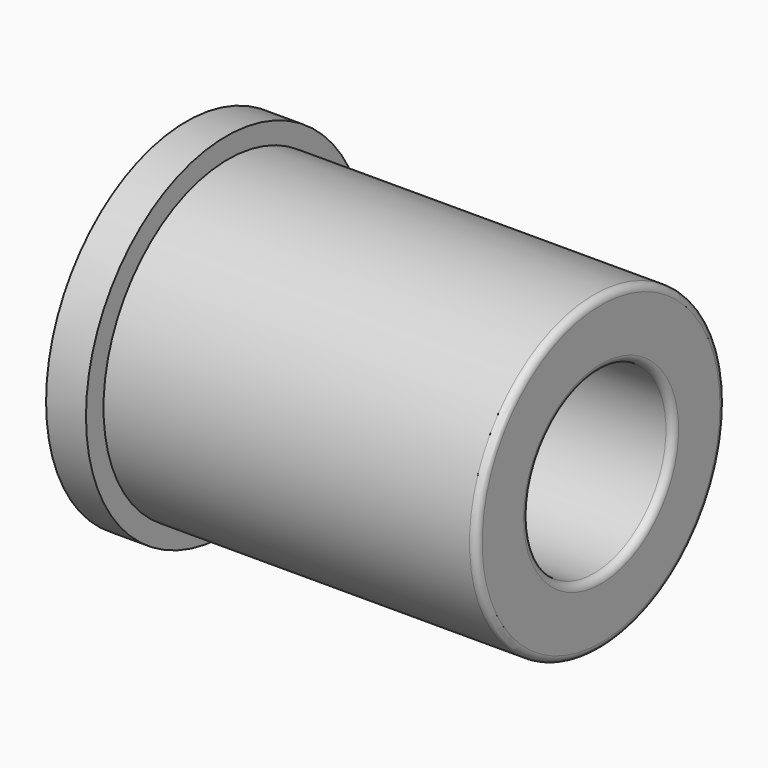
from build123d import *

# Parameters (mm, degrees)
F0_R     = 12.49
F1_DEPTH = 2.84
F2_R     = 10.74
F3_DEPTH = 0.12
F4_R     = 11.08
F5_DEPTH = 26.56
F6_R     = 6.4
F7_DEPTH = 29.52
F8_R     = 0.5


with BuildPart() as f1:
    # F0 (on Right) → F1 (new body)
    with BuildSketch(Plane.YZ):
        Circle(F0_R)
    extrude(amount=F1_DEPTH)

    # F2 (on face) → F3 (join)
    with BuildSketch(Plane.YZ.offset(2.84)):
        Circle(F2_R)
    extrude(amount=F3_DEPTH)

    # F4 (on face) → F5 (join)
    with BuildSketch(Plane.YZ.offset(2.96)):
        Circle(F4_R)
    extrude(amount=F5_DEPTH)

    # F6 (on face) → F7 (cut)
    with BuildSketch(Plane(origin=(0, 0, 0), x_dir=(0, -1, 0), z_dir=(-1, 0, 0))):
        Circle(F6_R)
    extrude(amount=-F7_DEPTH, mode=Mode.SUBTRACT)

    # F8
    f8_edges = [f1.edges().sort_by_distance(p)[0] for p in [
        (0, 6.4, 0),
        (29.52, -11.08, 0),
        (29.52, 6.4, 0),
    ]]
    fillet(f8_edges, radius=F8_R)


solid = f1.part
